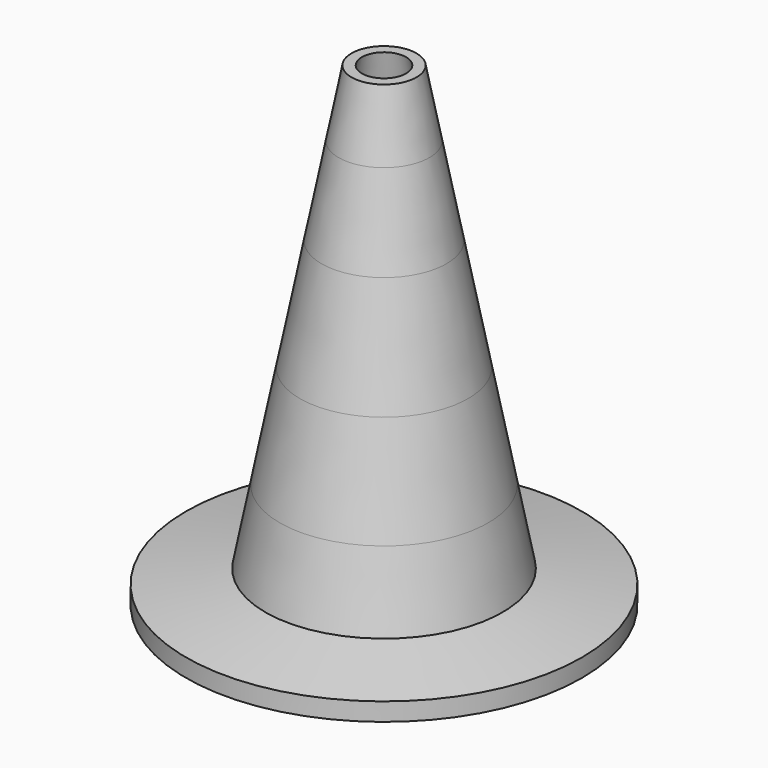
from build123d import *

# Parameters (mm, degrees)
F6_R     = 15
F7_DEPTH = 62.23
F7_TAPER = 11.5


with BuildPart() as f1:
    # F0 (on Front) → F1 (revolve)
    with BuildSketch(Plane.XZ):
        Polygon((-5.7397772641, 51.6), (0, 51.6), (0, 60), (-4.1069826674, 60), align=None)
    revolve(axis=Axis((0, 0, 30), (0, 0, -1)))


with BuildPart() as f2:
    # F0 (on Front) → F2 (revolve)
    with BuildSketch(Plane.XZ):
        Polygon((-7.8973986956, 40.5), (0, 40.5), (0, 51.6), (-5.7397772641, 51.6), align=None)
    revolve(axis=Axis((0, 0, 30), (0, 0, -1)))


with BuildPart() as f3:
    # F0 (on Front) → F3 (revolve)
    with BuildSketch(Plane.XZ):
        Polygon((-10.6381610544, 26.4), (0, 26.4), (0, 40.5), (-7.8973986956, 40.5), align=None)
    revolve(axis=Axis((0, 0, 30), (0, 0, -1)))


with BuildPart() as f4:
    # F0 (on Front) → F4 (revolve)
    with BuildSketch(Plane.XZ):
        Polygon((-13.1651050732, 13.4), (0, 13.4), (0, 26.4), (-10.6381610544, 26.4), align=None)
    revolve(axis=Axis((0, 0, 30), (0, 0, -1)))


with BuildPart() as f5:
    # F0 (on Front) → F5 (revolve)
    with BuildSketch(Plane.XZ):
        Polygon((-25, 2.281), (-25, 0), (0, 0), (0, 13.4), (-13.1651050732, 13.4), (-14.9830954039, 4.0472505435), align=None)
    revolve(axis=Axis((0, 0, 30), (0, 0, -1)))


with BuildPart() as f7_tool:
    # F6 (on face) → F7 (new body)
    with BuildSketch(Plane(origin=(0, 0, 0), x_dir=(1, 0, 0), z_dir=(0, 0, -1))):
        Circle(F6_R)
    extrude(amount=-F7_DEPTH, taper=F7_TAPER)


with BuildPart() as f1_1:
    add(f1.part)

    # F7: cut by f7_tool
    add(f7_tool.part, mode=Mode.SUBTRACT)


with BuildPart() as f2_1:
    add(f2.part)

    # F7: cut by f7_tool
    add(f7_tool.part, mode=Mode.SUBTRACT)


with BuildPart() as f3_1:
    add(f3.part)

    # F7: cut by f7_tool
    add(f7_tool.part, mode=Mode.SUBTRACT)


with BuildPart() as f4_1:
    add(f4.part)

    # F7: cut by f7_tool
    add(f7_tool.part, mode=Mode.SUBTRACT)


with BuildPart() as f5_1:
    add(f5.part)

    # F7: cut by f7_tool
    add(f7_tool.part, mode=Mode.SUBTRACT)


solid = Compound([f1_1.part, f2_1.part, f3_1.part, f4_1.part, f5_1.part])
